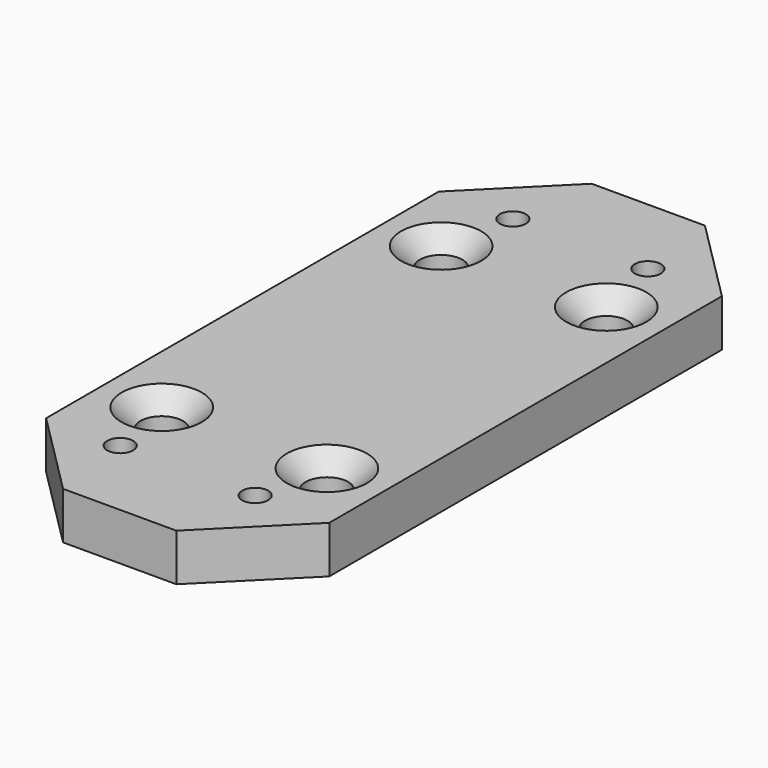
from build123d import *

# Parameters (mm, degrees)
F0_W     = 60
F0_H     = 140
F0_R     = 4.5
F0_R_2   = 2.75
F1_DEPTH = 10
F2_SIZE  = 4
F3_SIZE  = 18


with BuildPart() as f1:
    # F0 (on Top) → F1 (new body)
    with BuildSketch(Plane.XY):
        with Locations((-2.776433, 70)):
            Rectangle(F0_W, F0_H)
        with Locations((-20.276433, 33)):
            Circle(F0_R, mode=Mode.SUBTRACT)
        with Locations((-17.076433, 18)):
            Circle(F0_R_2, mode=Mode.SUBTRACT)
        with Locations((11.523567, 18)):
            Circle(F0_R_2, mode=Mode.SUBTRACT)
        with Locations((14.723567, 33)):
            Circle(F0_R, mode=Mode.SUBTRACT)
        with Locations((-20.276433, 107)):
            Circle(F0_R, mode=Mode.SUBTRACT)
        with Locations((-17.076433, 122)):
            Circle(F0_R_2, mode=Mode.SUBTRACT)
        with Locations((11.523567, 122)):
            Circle(F0_R_2, mode=Mode.SUBTRACT)
        with Locations((14.723567, 107)):
            Circle(F0_R, mode=Mode.SUBTRACT)
    extrude(amount=F1_DEPTH)

    # F2
    f2_edges = [f1.edges().sort_by_distance(p)[0] for p in [
        (-24.776433, 33, 10),
        (10.223567, 33, 10),
        (10.223567, 107, 10),
        (-24.776433, 107, 10),
    ]]
    chamfer(f2_edges, length=F2_SIZE)

    # F3
    f3_edges = [f1.edges().sort_by_distance(p)[0] for p in [
        (-32.776433, 0, 5),
        (27.223567, 0, 5),
        (27.223567, 140, 5),
        (-32.776433, 140, 5),
    ]]
    chamfer(f3_edges, length=F3_SIZE)


solid = f1.part
